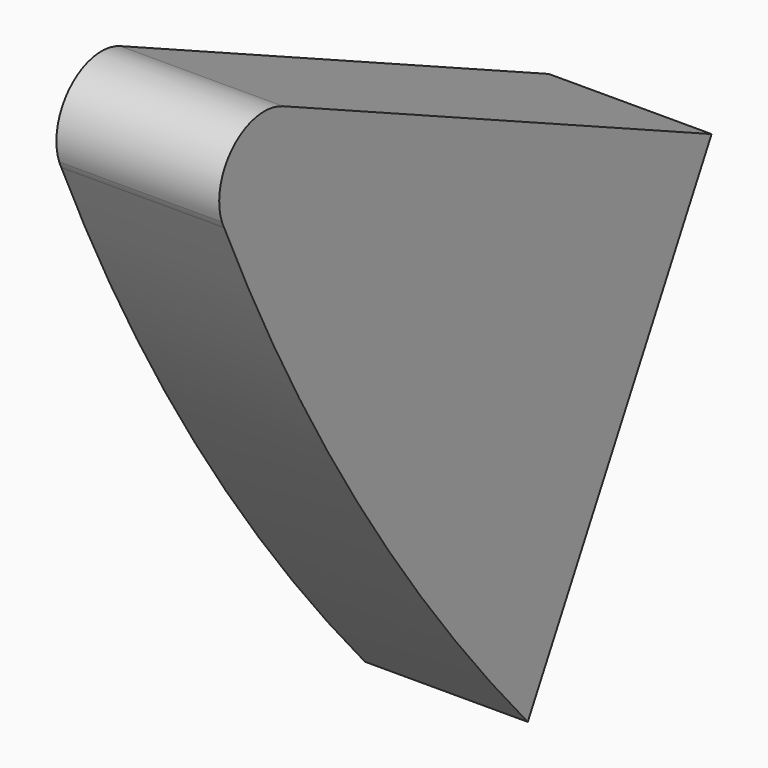
from build123d import *

# Parameters (mm, degrees)
F1_DEPTH = 5


with BuildPart() as f1:
    # F0 (on Right) → F1 (new body)
    with BuildSketch(Plane.YZ):
        with BuildLine():
            Line((7.057175, 13.025553), (-9.4007, 20.468665))
            ThreePointArc((-9.4007, 20.468665), (-11.296254, 20.157103), (-11.7391, 18.287857))
            ThreePointArc((-11.7391, 18.287857), (-11.698015, 18.194185), (-11.656791, 18.100575))
            ThreePointArc((-11.656791, 18.100575), (-6.538399, 8.593044), (0, 0))
            Line((0, 0), (7.057175, 13.025553))
        make_face()
        with BuildLine():
            ThreePointArc((-11.656791, 18.100575), (-11.698015, 18.194185), (-11.7391, 18.287857))
            ThreePointArc((-11.7391, 18.287857), (-11.700712, 18.193), (-11.656791, 18.100575))
        make_face()
    extrude(amount=F1_DEPTH)


solid = f1.part
